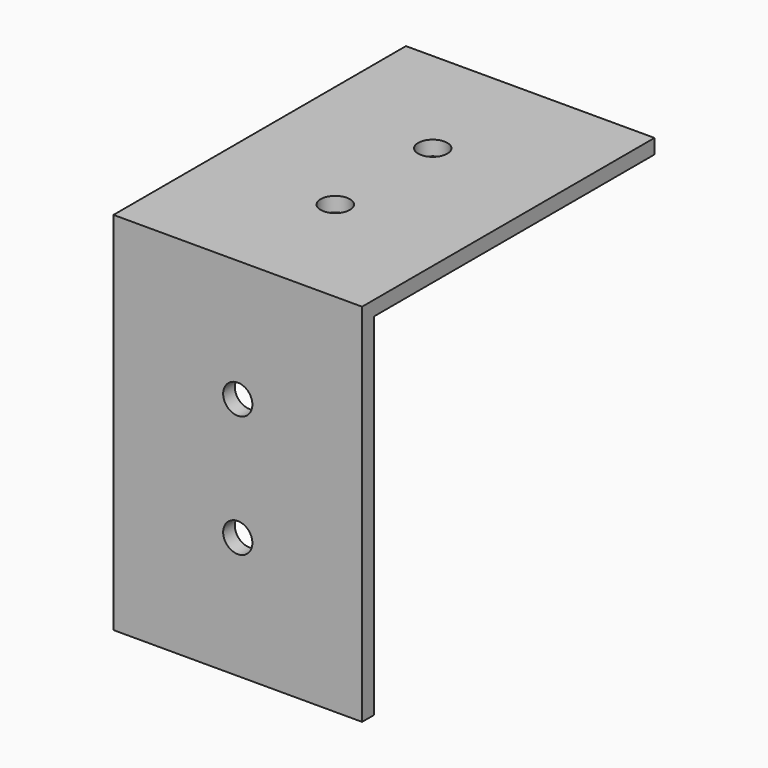
from build123d import *

# Parameters (mm, degrees)
F1_DEPTH = 17
F2_R     = 1
F3_DEPTH = 1
F4_R     = 1
F5_DEPTH = 1


with BuildPart() as f1:
    # F0 (on Right) → F1 (new body)
    with BuildSketch(Plane.YZ):
        Polygon((-73.201425, 22.422691), (-98.201425, 22.422691), (-98.201425, -2.577309), (-97.201425, -2.577309), (-97.201425, 21.422691), (-73.201425, 21.422691), align=None)
    extrude(amount=F1_DEPTH)

    # F2 (on face) → F3 (cut)
    with BuildSketch(Plane(origin=(0, -97.201425, 0), x_dir=(-1, 0, 0), z_dir=(0, 1, 0))):
        with Locations((-8.5, 5.756025)):
            Circle(F2_R)
        with Locations((-8.5, 14.089358)):
            Circle(F2_R)
    extrude(amount=-F3_DEPTH, mode=Mode.SUBTRACT)

    # F4 (on face) → F5 (cut)
    with BuildSketch(Plane.XY.offset(22.422691)):
        with Locations((8.5, -81.534759)):
            Circle(F4_R)
        with Locations((8.5, -89.868092)):
            Circle(F4_R)
    extrude(amount=-F5_DEPTH, mode=Mode.SUBTRACT)


solid = f1.part
